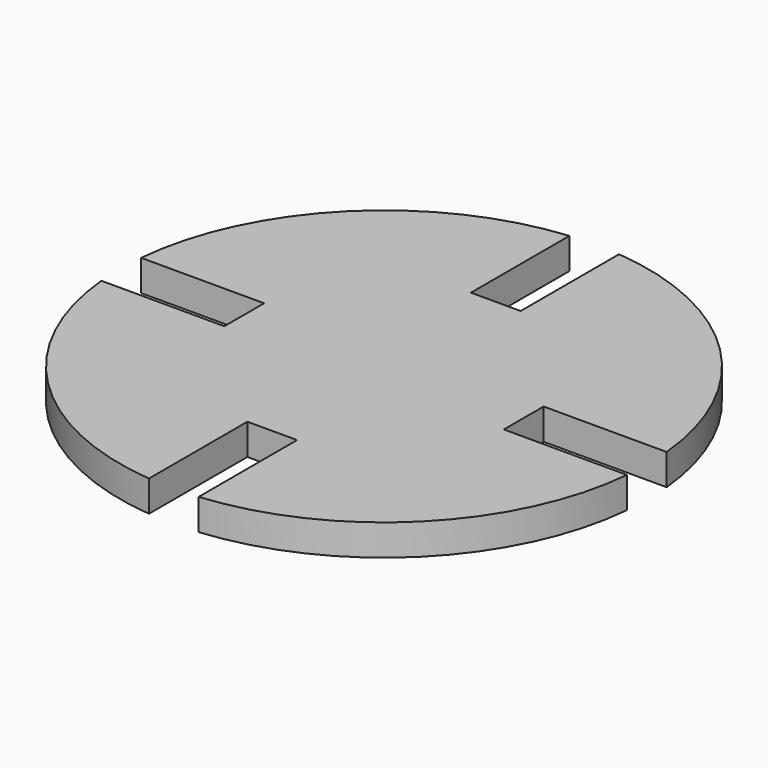
from build123d import *

# Parameters (mm, degrees)
BOX_W          = 3.2
BOX_H          = 10
BOX_DEPTH      = 4
ARRAY_COUNT    = 4
CYLINDER_R     = 17
CYLINDER_DEPTH = 2


with BuildPart() as array:
    # Box → Box (new body)
    with BuildSketch(Plane(origin=(-1.6, 9, -1), x_dir=(1, 0, 0), z_dir=(0, 0, 1))):
        with Locations((1.6, 5)):
            Rectangle(BOX_W, BOX_H)
    extrude(amount=BOX_DEPTH)

    # Array: Array ×4 about axis
    array_axis = Axis((0, 0, 0), (0, 0, 1))


with BuildPart() as array_1:
    add(array.part)
    for i in range(1, ARRAY_COUNT):
        add(array.part.rotate(array_axis, i * 360 / ARRAY_COUNT))


with BuildPart() as cut:
    # Cylinder → Cylinder (new body)
    with BuildSketch(Plane.XY):
        Circle(CYLINDER_R)
    extrude(amount=CYLINDER_DEPTH)

    # Cut: cut Array
    add(array_1.part, mode=Mode.SUBTRACT)


solid = cut.part
